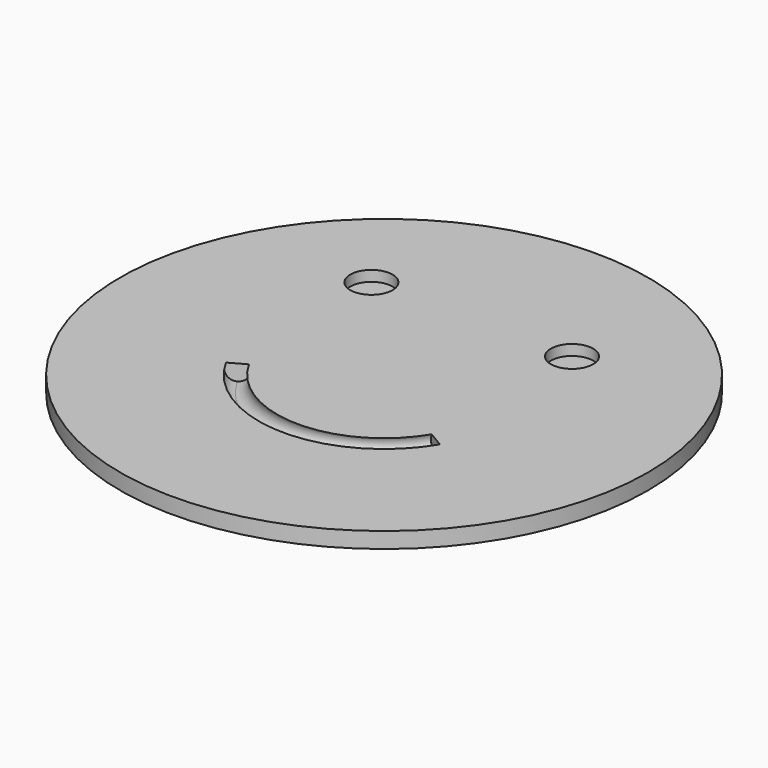
from build123d import *

# Parameters (mm, degrees)
TORUS_R               = 2
TORUS_ANGLE           = 120
TORUS_PLACEMENT_ANGLE = 209
CYLINDER002_R         = 4
CYLINDER002_DEPTH     = 10
CYLINDER001_R         = 4
CYLINDER001_DEPTH     = 10
CYLINDER_R            = 50
CYLINDER_DEPTH        = 3


with BuildPart() as torus:
    # Torus → Torus (revolve)
    with BuildSketch(Plane.XZ):
        with Locations((22, 0)):
            Circle(TORUS_R)
    revolve(axis=Axis((0, 0, 0), (0, 0, 1)), revolution_arc=TORUS_ANGLE)


with BuildPart() as torus_1:
    # Torus placement: moved
    add(torus.part.moved(Location((0, 0, 2))).rotate(Axis((0, 0, 2), (0, 0, 1)), TORUS_PLACEMENT_ANGLE))


with BuildPart() as cylinder001:
    # Cylinder002 → Cylinder002 (new body)
    with BuildSketch(Plane(origin=(18, 22, 1), x_dir=(1, 0, 0), z_dir=(0, 0, 1))):
        Circle(CYLINDER002_R)
    extrude(amount=CYLINDER002_DEPTH)


with BuildPart() as ojos_boca:
    # Cylinder001 → Cylinder001 (new body)
    with BuildSketch(Plane(origin=(-20, 22, 1), x_dir=(1, 0, 0), z_dir=(0, 0, 1))):
        Circle(CYLINDER001_R)
    extrude(amount=CYLINDER001_DEPTH)

    # Fusion: union Cylinder001
    add(cylinder001.part)

    # Fusion001: union Torus
    add(torus_1.part)


with BuildPart() as smiley:
    # Cylinder → Cylinder (new body)
    with BuildSketch(Plane.XY):
        Circle(CYLINDER_R)
    extrude(amount=CYLINDER_DEPTH)

    # Cut: cut Ojos_Boca
    add(ojos_boca.part, mode=Mode.SUBTRACT)


solid = smiley.part
